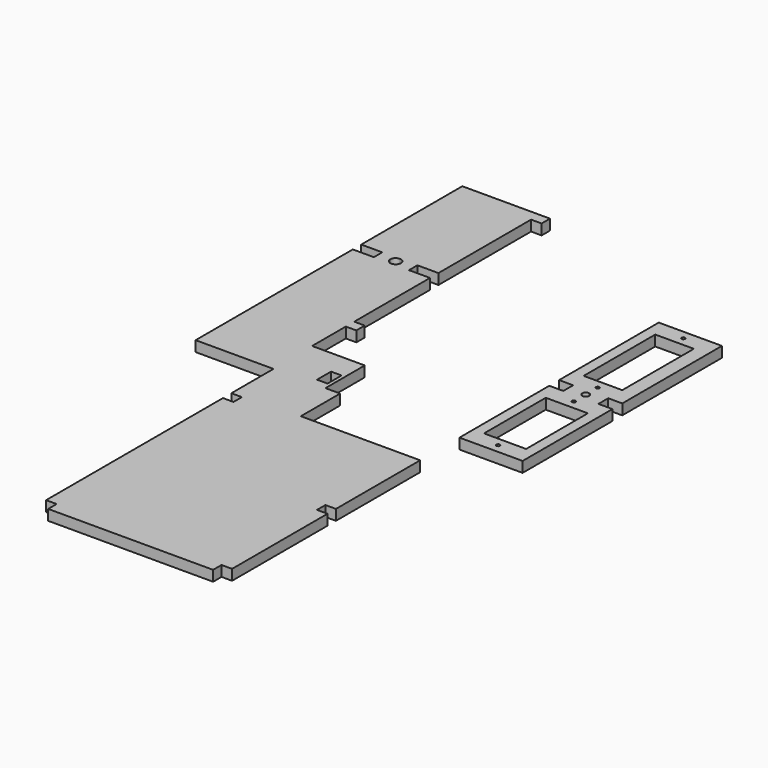
from build123d import *

# Parameters (mm, degrees)
F0_W     = 3
F0_H     = 22
F0_W_2   = 4
F0_H_2   = 2.5
F0_H_3   = 25.5
F1_DEPTH = 3
F3_DEPTH = 3
F4_W     = 3
F4_H     = 5
F5_DEPTH = 3


with BuildPart() as f1:
    # F0 (on Top) → F1 (new body)
    with BuildSketch(Plane.XY):
        with BuildLine():
            Line((0, 2.5), (0, 0))
            Line((0, 0), (9, 0))
            Line((9, 0), (9, 2))
            ThreePointArc((9, 2), (8.6464466094, 2.1464466094), (8.5, 2.5))
            Line((8.5, 2.5), (0, 2.5))
        make_face()
        with BuildLine():
            Line((0, 5), (0, 2.5))
            Line((0, 2.5), (8.5, 2.5))
            ThreePointArc((8.5, 2.5), (8.6464466094, 2.8535533906), (9, 3))
            Line((9, 3), (9, 5))
            Line((9, 5), (8.0080386251, 5))
            Line((8.0080386251, 5), (4.5, 5))
            Line((4.5, 5), (3, 5))
            Line((3, 5), (2.25, 5))
            Line((2.25, 5), (0, 5))
        make_face()
        with BuildLine():
            Line((9, 2), (9, 0))
            Line((9, 0), (18, 0))
            Line((18, 0), (18, 2.5))
            Line((18, 2.5), (9.5, 2.5))
            ThreePointArc((9.5, 2.5), (9.3535533906, 2.1464466094), (9, 2))
        make_face()
        Polygon((0, 27), (0, 5), (2.25, 5), (3, 5), (3, 27), align=None)
        with BuildLine():
            Line((0, 29.5), (0, 27))
            Line((0, 27), (3, 27))
            Line((3, 27), (9, 27))
            Line((9, 27), (9, 29))
            ThreePointArc((9, 29), (8.6464466094, 29.1464466094), (8.5, 29.5))
            Line((8.5, 29.5), (0, 29.5))
        make_face()
        with BuildLine():
            Line((9, 5), (9, 3))
            ThreePointArc((9, 3), (9.3535533906, 2.8535533906), (9.5, 2.5))
            Line((9.5, 2.5), (18, 2.5))
            Line((18, 2.5), (18, 5))
            Line((18, 5), (15, 5))
            Line((15, 5), (13.5, 5))
            Line((13.5, 5), (9, 5))
        make_face()
        with BuildLine():
            Line((0, 32), (0, 29.5))
            Line((0, 29.5), (8.5, 29.5))
            ThreePointArc((8.5, 29.5), (8.6464466094, 29.8535533906), (9, 30))
            Line((9, 30), (9, 32))
            Line((9, 32), (4, 32))
            Line((4, 32), (0, 32))
        make_face()
        with Locations((16.5, 16)):
            Rectangle(F0_W, F0_H)
        with BuildLine():
            Line((9, 29), (9, 27))
            Line((9, 27), (15, 27))
            Line((15, 27), (18, 27))
            Line((18, 27), (18, 29.5))
            Line((18, 29.5), (9.5, 29.5))
            ThreePointArc((9.5, 29.5), (9.3535533906, 29.1464466094), (9, 29))
        make_face()
        with BuildLine():
            Line((4, 33.75), (4, 32))
            Line((4, 32), (9, 32))
            Line((9, 32), (9, 32.75))
            ThreePointArc((9, 32.75), (8.2928932188, 33.0428932188), (8, 33.75))
            Line((8, 33.75), (4, 33.75))
        make_face()
        with BuildLine():
            Line((9, 32), (9, 30))
            ThreePointArc((9, 30), (9.3535533906, 29.8535533906), (9.5, 29.5))
            Line((9.5, 29.5), (18, 29.5))
            Line((18, 29.5), (18, 32))
            Line((18, 32), (14, 32))
            Line((14, 32), (9, 32))
        make_face()
        with BuildLine():
            Line((9, 32.75), (9, 32))
            Line((9, 32), (14, 32))
            Line((14, 32), (14, 33.75))
            Line((14, 33.75), (10, 33.75))
            ThreePointArc((10, 33.75), (9.7071067812, 33.0428932188), (9, 32.75))
        make_face()
        with BuildLine():
            Line((4, 35.5), (4, 33.75))
            Line((4, 33.75), (8, 33.75))
            ThreePointArc((8, 33.75), (8.2928932188, 34.4571067812), (9, 34.75))
            Line((9, 34.75), (9, 35.5))
            Line((9, 35.5), (4, 35.5))
        make_face()
        with BuildLine():
            Line((4, 38), (4, 35.5))
            Line((4, 35.5), (9, 35.5))
            Line((9, 35.5), (9, 37.5))
            ThreePointArc((9, 37.5), (8.6464466094, 37.6464466094), (8.5, 38))
            Line((8.5, 38), (4, 38))
        make_face()
        with Locations((2, 36.75)):
            Rectangle(F0_W_2, F0_H_2)
        with BuildLine():
            Line((10, 33.75), (14, 33.75))
            Line((14, 33.75), (14, 35.5))
            Line((14, 35.5), (9, 35.5))
            Line((9, 35.5), (9, 34.75))
            ThreePointArc((9, 34.75), (9.7071067812, 34.4571067812), (10, 33.75))
        make_face()
        with BuildLine():
            Line((9, 37.5), (9, 35.5))
            Line((9, 35.5), (14, 35.5))
            Line((14, 35.5), (18, 35.5))
            Line((18, 35.5), (18, 38))
            Line((18, 38), (9.5, 38))
            ThreePointArc((9.5, 38), (9.3535533906, 37.6464466094), (9, 37.5))
        make_face()
        Polygon((0, 38), (4, 38), (4, 40.5), (3, 40.5), (0, 40.5), align=None)
        with BuildLine():
            ThreePointArc((9, 38.5), (9.3535533906, 38.3535533906), (9.5, 38))
            Line((9.5, 38), (18, 38))
            Line((18, 38), (18, 40.5))
            Line((18, 40.5), (14, 40.5))
            Line((14, 40.5), (9, 40.5))
            Line((9, 40.5), (9, 38.5))
        make_face()
        with Locations((1.5, 53.25)):
            Rectangle(F0_W, F0_H_3)
        Polygon((0, 71), (0, 66), (3, 66), (3, 68.5), (3, 71), align=None)
        with Locations((16, 53.25)):
            Rectangle(F0_W_2, F0_H_3)
        Polygon((14, 68.5), (14, 66), (18, 66), (18, 71), (14, 71), align=None)
        with BuildLine():
            Line((3, 71), (3, 68.5))
            Line((3, 68.5), (8.5, 68.5))
            ThreePointArc((8.5, 68.5), (8.6464466094, 68.8535533906), (9, 69))
            Line((9, 69), (9, 71))
            Line((9, 71), (3, 71))
        make_face()
        with BuildLine():
            Line((9.5, 68.5), (14, 68.5))
            Line((14, 68.5), (14, 71))
            Line((14, 71), (9, 71))
            Line((9, 71), (9, 69))
            ThreePointArc((9, 69), (9.3535533906, 68.8535533906), (9.5, 68.5))
        make_face()
        with BuildLine():
            Line((4, 40.5), (4, 38))
            Line((4, 38), (8.5, 38))
            ThreePointArc((8.5, 38), (8.6464466094, 38.3535533906), (9, 38.5))
            Line((9, 38.5), (9, 40.5))
            Line((9, 40.5), (4, 40.5))
        make_face()
        with BuildLine():
            Line((3, 68.5), (3, 66))
            Line((3, 66), (9, 66))
            Line((9, 66), (9, 68))
            ThreePointArc((9, 68), (8.6464466094, 68.1464466094), (8.5, 68.5))
            Line((8.5, 68.5), (3, 68.5))
        make_face()
        with BuildLine():
            Line((9, 66), (14, 66))
            Line((14, 66), (14, 68.5))
            Line((14, 68.5), (9.5, 68.5))
            ThreePointArc((9.5, 68.5), (9.3535533906, 68.1464466094), (9, 68))
            Line((9, 68), (9, 66))
        make_face()
    extrude(amount=F1_DEPTH)


with BuildPart() as f3:
    # F2 (on Top) → F3 (new body)
    with BuildSketch(Plane.XY):
        Polygon((-34, 0), (-53, 0), (-53, -15), (-50, -15), (-50, -18), (-53, -18), (-53, -81), (-50, -81), (-50, -84), (-3, -84), (-3, -81), (0, -81), (0, -47), (-3, -47), (-3, -44), (0, -44), (0, -14), (-34, -14), align=None)
    extrude(amount=F3_DEPTH)

    # F4 (on Top) → F5 (join)
    with BuildSketch(Plane.XY):
        Polygon((-75.1862302423, 56), (-75.1862302423, 0), (-38.1862302423, 0), (-38.1862302423, 14), (-50.1862302423, 14), (-53.1862302423, 14), (-53.1862302423, 26), (-50.1862302423, 26), (-50.1862302423, 29), (-53.1862302423, 29), (-53.1862302423, 56), (-59.1862302423, 56), (-64.1862302423, 56), (-69.1862302423, 56), align=None)
        with Locations((-40.6862302423, 4.5)):
            Rectangle(F4_W, F4_H, mode=Mode.SUBTRACT)
        with BuildLine():
            Line((-69.1862302423, 57.5), (-69.1862302423, 56))
            Line((-69.1862302423, 56), (-64.1862302423, 56))
            ThreePointArc((-64.1862302423, 56), (-65.246890414, 56.4393398282), (-65.6862302423, 57.5))
            Line((-65.6862302423, 57.5), (-69.1862302423, 57.5))
        make_face()
        with BuildLine():
            Line((-69.1862302423, 59), (-69.1862302423, 57.5))
            Line((-69.1862302423, 57.5), (-65.6862302423, 57.5))
            ThreePointArc((-65.6862302423, 57.5), (-65.246890414, 58.5606601718), (-64.1862302423, 59))
            Line((-64.1862302423, 59), (-69.1862302423, 59))
        make_face()
        with BuildLine():
            ThreePointArc((-62.6862302423, 57.5), (-63.1255700705, 56.4393398282), (-64.1862302423, 56))
            Line((-64.1862302423, 56), (-59.1862302423, 56))
            Line((-59.1862302423, 56), (-59.1862302423, 57.5))
            Line((-59.1862302423, 57.5), (-62.6862302423, 57.5))
        make_face()
        Polygon((-75.1862302423, 59), (-69.1862302423, 59), (-64.1862302423, 59), (-59.1862302423, 59), (-53.1862302423, 59), (-53.1862302423, 92), (-50.1862302423, 92), (-50.1862302423, 95), (-75.1862302423, 95), align=None)
        with BuildLine():
            ThreePointArc((-64.1862302423, 59), (-63.1255700705, 58.5606601718), (-62.6862302423, 57.5))
            Line((-62.6862302423, 57.5), (-59.1862302423, 57.5))
            Line((-59.1862302423, 57.5), (-59.1862302423, 59))
            Line((-59.1862302423, 59), (-64.1862302423, 59))
        make_face()
    extrude(amount=F5_DEPTH)


solid = Compound([f1.part, f3.part])
